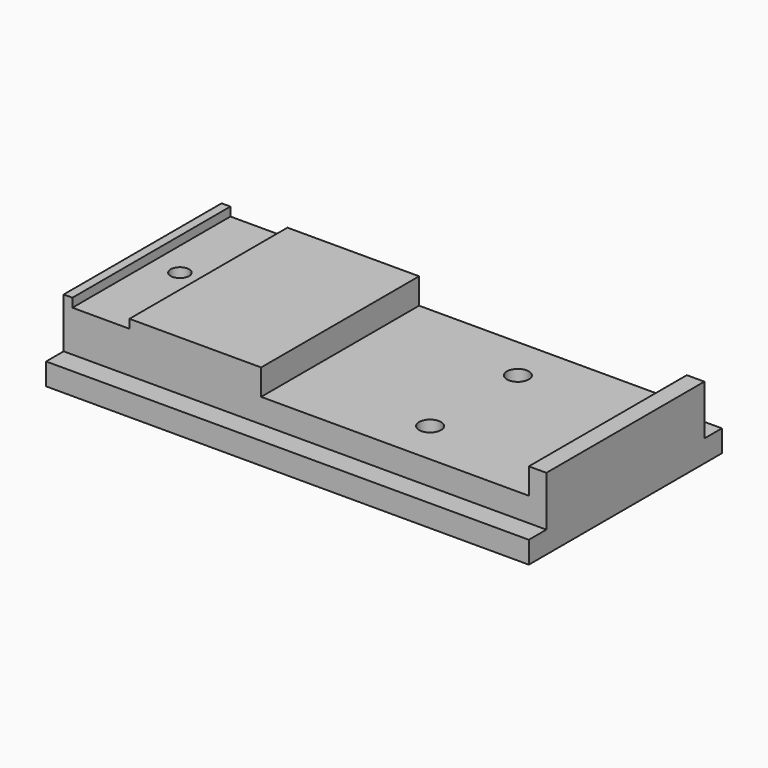
from build123d import *

# Parameters (mm, degrees)
F0_W           = 110
F0_H           = 55
F1_DEPTH       = 5
F2_W           = 110
F2_H           = 45
F3_DEPTH       = 11.4
F4_W           = 13
F4_H           = 45
F5_DEPTH       = 2
F4_W_2         = 61
F6_DEPTH       = 5.9
F8_D           = 4.2
F8_CBORE_D     = 8
F8_CBORE_DEPTH = 5
F10_D          = 5


with BuildPart() as f1:
    # F0 (on Top) → F1 (new body)
    with BuildSketch(Plane.XY):
        Rectangle(F0_W, F0_H)
    extrude(amount=F1_DEPTH)

    # F2 (on face) → F3 (join)
    with BuildSketch(Plane.XY.offset(5)):
        Rectangle(F2_W, F2_H)
    extrude(amount=F3_DEPTH)

    # F4 (on face) → F5 (cut)
    with BuildSketch(Plane.XY.offset(16.4)):
        with Locations((-46.5, 0)):
            Rectangle(F4_W, F4_H)
    extrude(amount=-F5_DEPTH, mode=Mode.SUBTRACT)

    # F4 (on face) → F6 (cut)
    with BuildSketch(Plane.XY.offset(16.4)):
        with Locations((20.5, 0)):
            Rectangle(F4_W_2, F4_H)
    extrude(amount=-F6_DEPTH, mode=Mode.SUBTRACT)

    # F8 (through all)
    with Locations(Plane(origin=(0, 0, 0), x_dir=(1, 0, 0), z_dir=(0, 0, -1))):
        with Locations((-46.5, 0)):
            CounterBoreHole(F8_D / 2, F8_CBORE_D / 2, F8_CBORE_DEPTH)

    # F10 (through all)
    with Locations(Plane.XY.offset(10.5)):
        with Locations((20.5, 12.5), (20.5, -12.5)):
            Hole(F10_D / 2)


solid = f1.part
